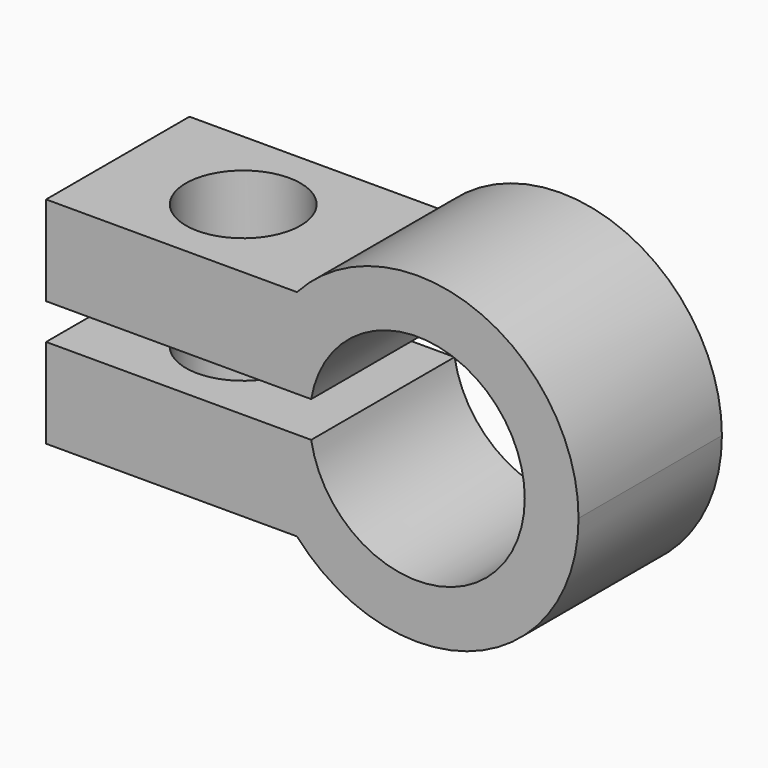
from build123d import *

# Parameters (mm, degrees)
F1_DEPTH = 25
F2_R     = 8
F3_DEPTH = 37.501


with BuildPart() as f1:
    # F0 (on Front) → F1 (new body)
    with BuildSketch(Plane.XZ):
        with BuildLine():
            Line((-51.7705098312, 2.5), (-22.360679775, 2.5))
            ThreePointArc((-22.360679775, 2.5), (-20.5395959064, 9.1855865354), (-16.7705098312, 15))
            Line((-16.7705098312, 15), (-51.7705098312, 15))
            Line((-51.7705098312, 15), (-51.7705098312, 2.5))
        make_face()
        with BuildLine():
            ThreePointArc((-16.7705098312, -15), (-20.5395959064, -9.1855865354), (-22.360679775, -2.5))
            Line((-22.360679775, -2.5), (-51.7705098312, -2.5))
            Line((-51.7705098312, -2.5), (-51.7705098312, -15))
            Line((-51.7705098312, -15), (-16.7705098312, -15))
        make_face()
        with BuildLine():
            ThreePointArc((-14.7901994577, 2.5), (1.2543939042, 14.9474578418), (15, 0))
            ThreePointArc((15, 0), (1.2543939042, -14.9474578418), (-14.7901994577, -2.5))
            Line((-14.7901994577, -2.5), (-22.360679775, -2.5))
            ThreePointArc((-22.360679775, -2.5), (-20.5395959064, -9.1855865354), (-16.7705098312, -15))
            ThreePointArc((-16.7705098312, -15), (8.0284970199, -21.0188780767), (22.5, 0))
            ThreePointArc((22.5, 0), (8.0284970199, 21.0188780767), (-16.7705098312, 15))
            ThreePointArc((-16.7705098312, 15), (-20.5395959064, 9.1855865354), (-22.360679775, 2.5))
            Line((-22.360679775, 2.5), (-14.7901994577, 2.5))
        make_face()
    extrude(amount=F1_DEPTH)

    # F2 (on face) → F3 (cut, through all)
    with BuildSketch(Plane.XY.offset(15)):
        with Locations((-34.2705098312, -12.5)):
            Circle(F2_R)
    extrude(amount=-F3_DEPTH, mode=Mode.SUBTRACT)


solid = f1.part
